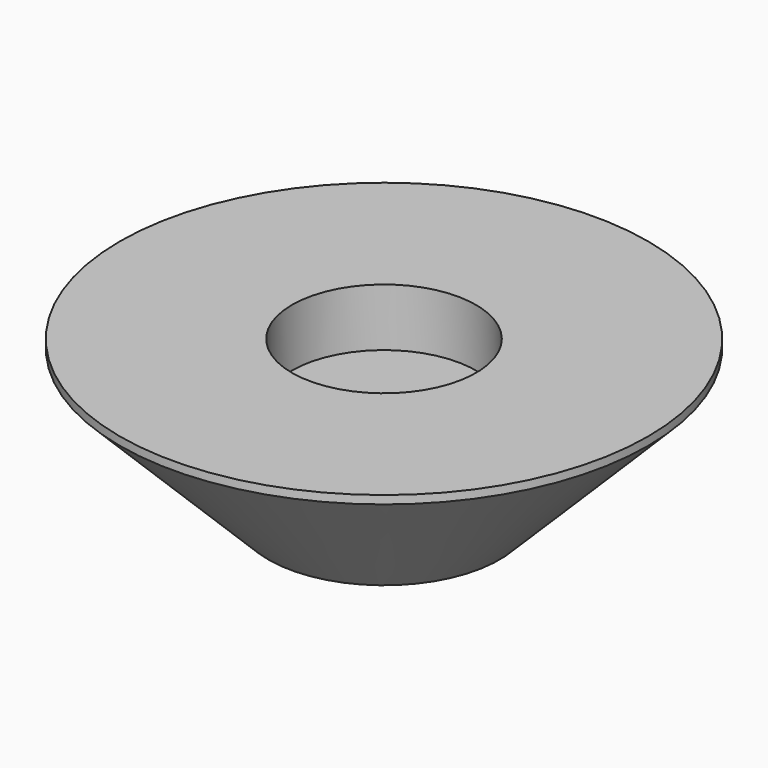
from build123d import *

# Parameters (mm, degrees)
F0_W     = 5
F0_H     = 0.4
F2_R     = 32
F3_DEPTH = 25


with BuildPart() as f1:
    # F0 (on Front) → F1 (revolve)
    with BuildSketch(Plane.XZ):
        Polygon((-14, 0), (-5, 0), (-5, 11.6), (-5, 12), (-11.15, 12), (-11.15, 19), (-33, 19), align=None)
        with Locations((-2.5, 11.8)):
            Rectangle(F0_W, F0_H)
    revolve(axis=Axis((0, 0, 11.8), (0, 0, 1)))


with BuildPart() as f3:
    # F2 (on Top) → F3 (new body)
    with BuildSketch(Plane.XY):
        Circle(F2_R)
    extrude(amount=F3_DEPTH)


with BuildPart() as f1_1:
    add(f1.part)

    # F4: intersect F3
    add(f3.part, mode=Mode.INTERSECT)


solid = f1_1.part
